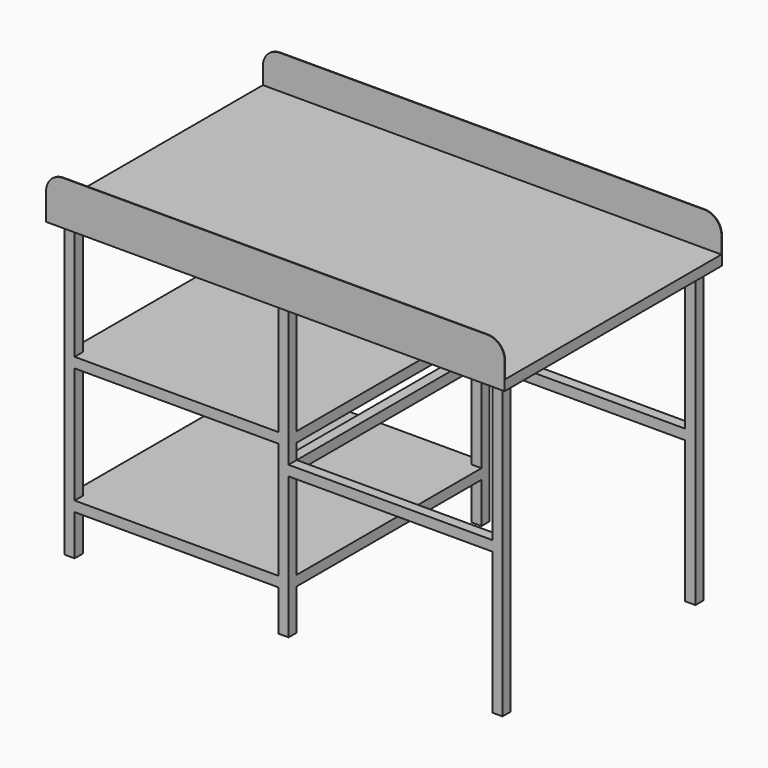
from build123d import *

# Parameters (mm, degrees)
F1_DEPTH      = 1350
F2_R          = 50
F3_W          = 30
F3_H          = 30
F4_DEPTH      = 865
F5_W          = 740
F5_H          = 30
F6_DEPTH      = 630
F6_DEPTH_BACK = 30
F7_W          = 30
F7_H          = 30
F8_DEPTH      = 600
F9_W          = 30
F9_H          = 30
F10_DEPTH     = 680


with BuildPart() as f1:
    # F0 (on Right) → F1 (new body)
    with BuildSketch(Plane.YZ):
        Polygon((2, 0), (0, 0), (0, -130), (800, -130), (800, 0), (798, 0), (798, -100), (2, -100), align=None)
    extrude(amount=F1_DEPTH)

    # F2
    f2_edges = [f1.edges().sort_by_distance(p)[0] for p in [
        (1350, 1, 0),
        (1350, 799, 0),
        (0, 799, 0),
        (0, 1, 0),
    ]]
    fillet(f2_edges, radius=F2_R)

    # F3 (on face) → F4 (join)
    with BuildSketch(Plane(origin=(0, 0, -130), x_dir=(1, 0, 0), z_dir=(0, 0, -1))):
        with Locations((45, -45)):
            Rectangle(F3_W, F3_H)
        with Locations((1305, -45)):
            Rectangle(F3_W, F3_H)
        with Locations((1305, -755)):
            Rectangle(F3_W, F3_H)
        with Locations((45, -755)):
            Rectangle(F3_W, F3_H)
        with Locations((675, -45)):
            Rectangle(F3_W, F3_H)
        with Locations((675, -755)):
            Rectangle(F3_W, F3_H)
    extrude(amount=F4_DEPTH)

    # F5 (on face) → F6 (join, two sides)
    with BuildSketch(Plane.YZ.offset(60)) as f6_sk:
        with Locations((400, -860)):
            Rectangle(F5_W, F5_H)
        with Locations((400, -487.5)):
            Rectangle(F5_W, F5_H)
    extrude(amount=F6_DEPTH)
    extrude(f6_sk.sketch, amount=-F6_DEPTH_BACK)

    # F7 (on face) → F8 (join, through all)
    with BuildSketch(Plane.YZ.offset(690)):
        with Locations((45, -562.5)):
            Rectangle(F7_W, F7_H)
        with Locations((755, -562.5)):
            Rectangle(F7_W, F7_H)
    extrude(amount=F8_DEPTH)

    # F9 (on face) → F10 (join, through all)
    with BuildSketch(Plane.XZ.offset(-740)):
        with Locations((675, -562.5)):
            Rectangle(F9_W, F9_H)
    extrude(amount=F10_DEPTH)


solid = f1.part
